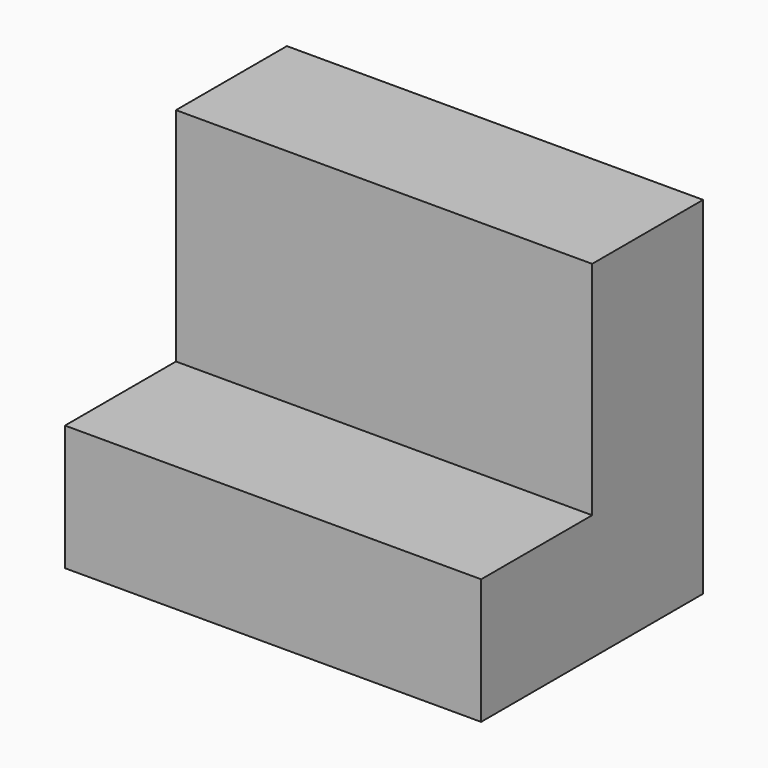
from build123d import *

# Parameters (mm, degrees)
F0_W     = 38.1
F0_H     = 38.1
F1_DEPTH = 25.4
F3_DEPTH = 50.8
F4_DEPTH = 6.35


with BuildPart() as f1:
    # F0 (on Front) → F1 (new body)
    with BuildSketch(Plane.XZ):
        with Locations((19.05, 19.05)):
            Rectangle(F0_W, F0_H)
    extrude(amount=F1_DEPTH)

    # F2 (on face) → F3 (cut)
    with BuildSketch(Plane.YZ.offset(38.1)):
        Polygon((-12.6932453566, 11.4907970736), (-12.6932453566, 38.1), (-25.4, 38.1), (-25.4, 11.4952089814), (-25.3932453566, 11.4907970736), align=None)
    extrude(amount=-F3_DEPTH, mode=Mode.SUBTRACT)

    # F4 (cut): a face of the model
    f4_faces = [f1.faces().sort_by_distance(p)[0] for p in [
        (19.05, -6.3466226783, 38.1),
    ]]
    extrude(f4_faces, amount=-F4_DEPTH, mode=Mode.SUBTRACT)


solid = f1.part
